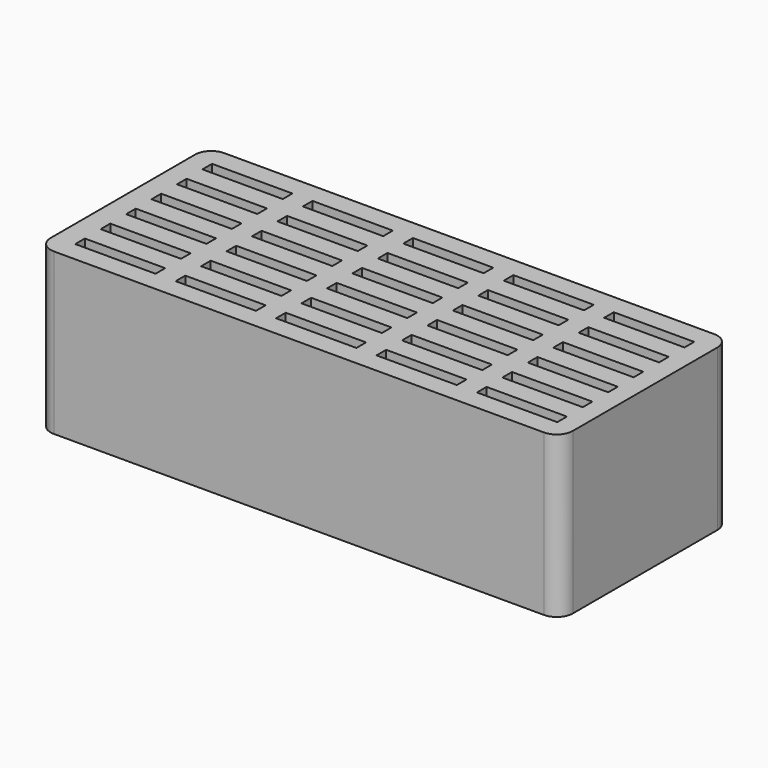
from build123d import *

# Parameters (mm, degrees)
F1_DEPTH = 40
F2_W     = 20
F2_H     = 3
F3_DEPTH = 25


with BuildPart() as f1:
    # F0 (on Top) → F1 (new body)
    with BuildSketch(Plane.XY):
        with BuildLine():
            ThreePointArc((0, 4), (1.171573, 1.171573), (4, 0))
            Line((4, 0), (126, 0))
            ThreePointArc((126, 0), (128.828427, 1.171573), (130, 4))
            Line((130, 4), (130, 49))
            ThreePointArc((130, 49), (128.828427, 51.828427), (126, 53))
            Line((126, 53), (4, 53))
            ThreePointArc((4, 53), (1.171573, 51.828427), (0, 49))
            Line((0, 49), (0, 4))
        make_face()
    extrude(amount=F1_DEPTH)

    # F2 (on face) → F3 (cut)
    with BuildSketch(Plane.XY.offset(40)):
        with Locations((15, 46.5)):
            Rectangle(F2_W, F2_H)
        with Locations((15.066508, 38.500276)):
            Rectangle(F2_W, F2_H)
        with Locations((15.133017, 30.500553)):
            Rectangle(F2_W, F2_H)
        with Locations((15.199525, 22.500829)):
            Rectangle(F2_W, F2_H)
        with Locations((15.266034, 14.501106)):
            Rectangle(F2_W, F2_H)
        with Locations((15.332542, 6.501382)):
            Rectangle(F2_W, F2_H)
        with Locations((40, 46.5)):
            Rectangle(F2_W, F2_H)
        with Locations((40.066508, 38.500276)):
            Rectangle(F2_W, F2_H)
        with Locations((40.133017, 30.500553)):
            Rectangle(F2_W, F2_H)
        with Locations((40.199525, 22.500829)):
            Rectangle(F2_W, F2_H)
        with Locations((40.266034, 14.501106)):
            Rectangle(F2_W, F2_H)
        with Locations((40.332542, 6.501382)):
            Rectangle(F2_W, F2_H)
        with Locations((65, 46.5)):
            Rectangle(F2_W, F2_H)
        with Locations((65.066508, 38.500276)):
            Rectangle(F2_W, F2_H)
        with Locations((65.133017, 30.500553)):
            Rectangle(F2_W, F2_H)
        with Locations((65.199525, 22.500829)):
            Rectangle(F2_W, F2_H)
        with Locations((65.266034, 14.501106)):
            Rectangle(F2_W, F2_H)
        with Locations((65.332542, 6.501382)):
            Rectangle(F2_W, F2_H)
        with Locations((90, 46.5)):
            Rectangle(F2_W, F2_H)
        with Locations((90.066508, 38.500276)):
            Rectangle(F2_W, F2_H)
        with Locations((90.133017, 30.500553)):
            Rectangle(F2_W, F2_H)
        with Locations((90.199525, 22.500829)):
            Rectangle(F2_W, F2_H)
        with Locations((90.266034, 14.501106)):
            Rectangle(F2_W, F2_H)
        with Locations((90.332542, 6.501382)):
            Rectangle(F2_W, F2_H)
        with Locations((115, 46.5)):
            Rectangle(F2_W, F2_H)
        with Locations((115.066508, 38.500276)):
            Rectangle(F2_W, F2_H)
        with Locations((115.133017, 30.500553)):
            Rectangle(F2_W, F2_H)
        with Locations((115.199525, 22.500829)):
            Rectangle(F2_W, F2_H)
        with Locations((115.266034, 14.501106)):
            Rectangle(F2_W, F2_H)
        with Locations((115.332542, 6.501382)):
            Rectangle(F2_W, F2_H)
    extrude(amount=-F3_DEPTH, mode=Mode.SUBTRACT)


solid = f1.part
